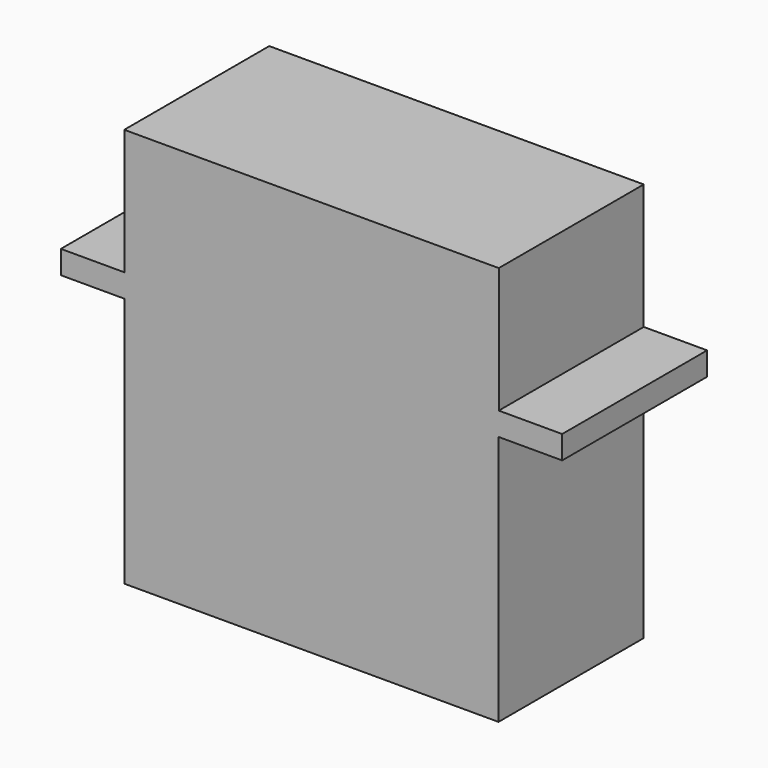
from build123d import *

# Parameters (mm, degrees)
PAD_DEPTH = 19.5


with BuildPart() as part:
    # Sketch → Pad (new body)
    with BuildSketch(Plane.XZ):
        Polygon((-20.12168, 13.5), (-20.12168, -13.5), (20.12168, -13.5), (20.12168, 13.5), (26.97168, 13.5), (26.97168, 16), (20.15, 16), (20.15, 29.5), (-20.15, 29.5), (-20.15, 16), (-26.97168, 16), (-26.97168, 13.5), align=None)
    extrude(amount=PAD_DEPTH)


solid = part.part
